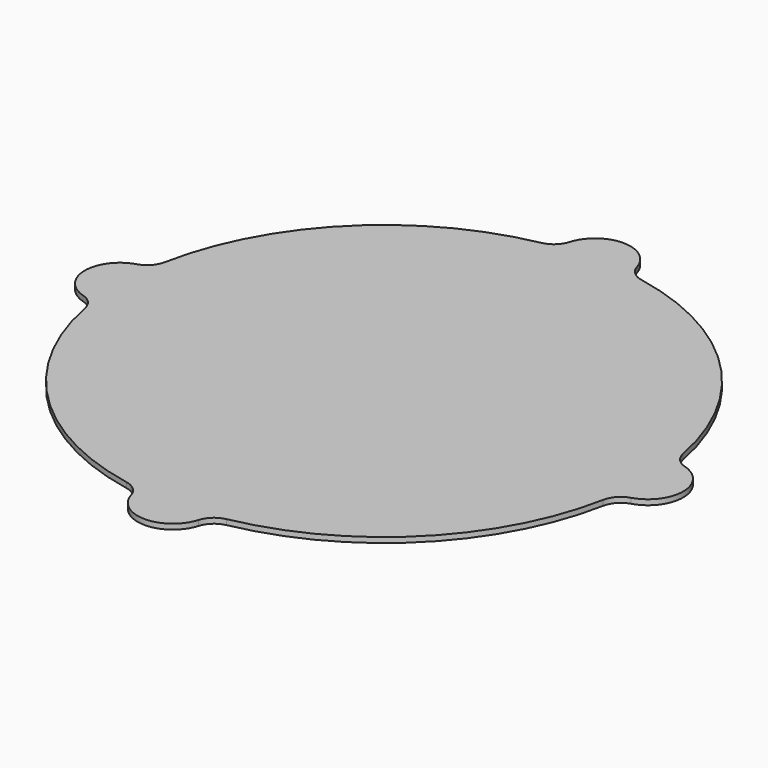
from build123d import *

# Parameters (mm, degrees)
F2_DEPTH = 1


with BuildPart() as f2:
    # F1 (on Top) → F2 (new body)
    with BuildSketch(Plane.XY):
        with BuildLine():
            ThreePointArc((-51.8889069339, -6.3927761258), (-50.060506173, -7.5404438101), (-49.0947818889, -9.4711346354))
            ThreePointArc((-49.0947818889, -9.4711346354), (-35.3553390593, -35.3553390593), (-9.4711346354, -49.0947818889))
            ThreePointArc((-9.4711346354, -49.0947818889), (-7.5404438101, -50.060506173), (-6.3927761258, -51.8889069339))
            ThreePointArc((-6.3927761258, -51.8889069339), (0, -56.666), (6.3927761258, -51.8889069339))
            ThreePointArc((6.3927761258, -51.8889069339), (7.5404438101, -50.060506173), (9.4711346354, -49.0947818889))
            ThreePointArc((9.4711346354, -49.0947818889), (35.3553390593, -35.3553390593), (49.0947818889, -9.4711346354))
            ThreePointArc((49.0947818889, -9.4711346354), (50.060506173, -7.5404438101), (51.8889069339, -6.3927761258))
            ThreePointArc((51.8889069339, -6.3927761258), (56.666, 0), (51.8889069339, 6.3927761258))
            ThreePointArc((51.8889069339, 6.3927761258), (50.060506173, 7.5404438101), (49.0947818889, 9.4711346354))
            ThreePointArc((49.0947818889, 9.4711346354), (35.3553390593, 35.3553390593), (9.4711346354, 49.0947818889))
            ThreePointArc((9.4711346354, 49.0947818889), (7.5404438101, 50.060506173), (6.3927761258, 51.8889069339))
            ThreePointArc((6.3927761258, 51.8889069339), (0, 56.666), (-6.3927761258, 51.8889069339))
            ThreePointArc((-6.3927761258, 51.8889069339), (-7.5404438101, 50.060506173), (-9.4711346354, 49.0947818889))
            ThreePointArc((-9.4711346354, 49.0947818889), (-35.3553390593, 35.3553390593), (-49.0947818889, 9.4711346354))
            ThreePointArc((-49.0947818889, 9.4711346354), (-50.060506173, 7.5404438101), (-51.8889069339, 6.3927761258))
            ThreePointArc((-51.8889069339, 6.3927761258), (-56.666, 0), (-51.8889069339, -6.3927761258))
        make_face()
    extrude(amount=F2_DEPTH)


solid = f2.part
